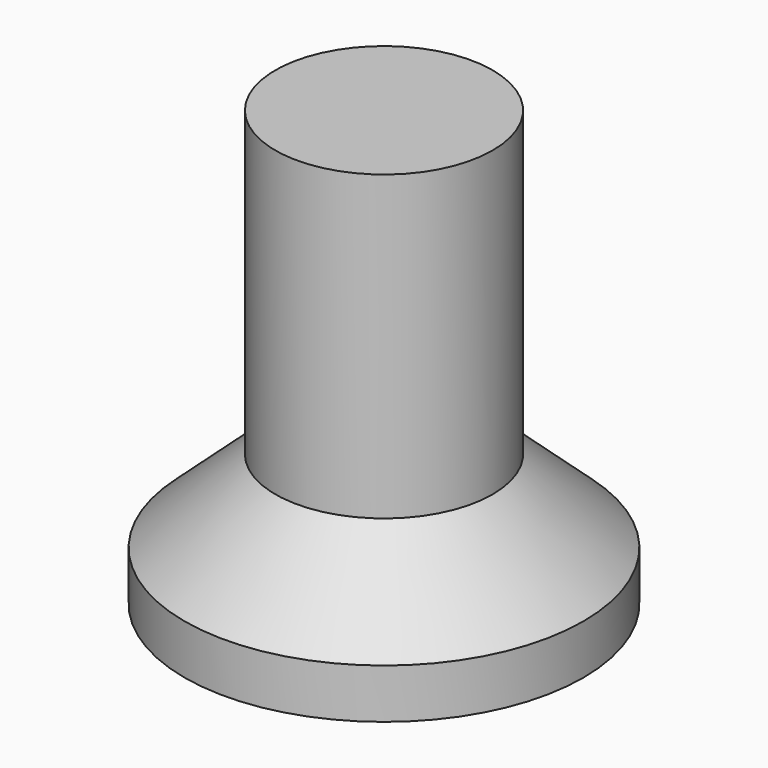
from build123d import *

# Parameters (mm, degrees)
F3_D     = 3
F3_DEPTH = 1
F3_TIP   = 0.9012909285
F5_DEPTH = 1.1


with BuildPart() as f1:
    # F0 (on Front) → F1 (revolve)
    with BuildSketch(Plane.XZ):
        Polygon((1.5, 6), (0, 6), (0, 0), (2.753497507, 0), (2.753497507, 0.685), (1.5, 1.82), align=None)
    revolve(axis=Axis((0, 0, 3), (0, 0, -1)))

    # F3
    with Locations(Plane(origin=(0, 0, 0), x_dir=(1, 0, 0), z_dir=(0, 0, -1))):
        with Locations((0, 0)):
            Hole(F3_D / 2, depth=F3_DEPTH)
            with Locations((0, 0, -(F3_DEPTH + F3_TIP / 2))):  # 118° drill point
                Cone(0, F3_D / 2, F3_TIP, mode=Mode.SUBTRACT)

    # F4 (on face) → F5 (cut)
    with BuildSketch(Plane(origin=(0, 0, 0), x_dir=(1, 0, 0), z_dir=(0, 0, -1))):
        with BuildLine():
            ThreePointArc((1.4420504443, -0.4129049722), (1.4854419656, -0.2084758182), (1.5, 0))
            ThreePointArc((1.5, 0), (1.3906683924, 0.5621756153), (1.0786114367, 1.0423998122))
            ThreePointArc((1.0786114367, 1.0423998122), (0.4129049995, 1.4420504365), (-0.3634389987, 1.4553048114))
            ThreePointArc((-0.3634389987, 1.4553048114), (-1.0423998218, 1.0786114275), (-1.4420504443, 0.4129049722))
            ThreePointArc((-1.4420504443, 0.4129049722), (-1.4553048039, -0.363439029), (-1.0786114144, -1.0423998354))
            ThreePointArc((-1.0786114144, -1.0423998354), (-0.412904984, -1.4420504409), (0.3634389987, -1.4553048114))
            ThreePointArc((0.3634389987, -1.4553048114), (1.0423998218, -1.0786114275), (1.4420504443, -0.4129049722))
        make_face()
        with BuildLine():
            ThreePointArc((1.0786114367, 1.0423998122), (1.3906683924, 0.5621756153), (1.5, 0))
            ThreePointArc((1.5, 0), (1.4854419656, -0.2084758182), (1.4420504443, -0.4129049722))
            Line((1.4420504443, -0.4129049722), (1.680441244, 0.4196632286))
            Line((1.680441244, 0.4196632286), (1.0786114367, 1.0423998122))
        make_face()
        with BuildLine():
            ThreePointArc((-0.3634389987, 1.4553048114), (0.4129049995, 1.4420504365), (1.0786114367, 1.0423998122))
            Line((1.0786114367, 1.0423998122), (0.476781605, 1.6651364212))
            Line((0.476781605, 1.6651364212), (-0.3634389987, 1.4553048114))
        make_face()
        with BuildLine():
            Line((1.203659639, -1.2454731926), (1.4420504443, -0.4129049722))
            ThreePointArc((1.4420504443, -0.4129049722), (1.0423998218, -1.0786114275), (0.3634389987, -1.4553048114))
            Line((0.3634389987, -1.4553048114), (1.203659639, -1.2454731926))
        make_face()
        with BuildLine():
            ThreePointArc((-1.4420504443, 0.4129049722), (-1.0423998218, 1.0786114275), (-0.3634389987, 1.4553048114))
            Line((-0.3634389987, 1.4553048114), (-1.203659639, 1.2454731926))
            Line((-1.203659639, 1.2454731926), (-1.4420504443, 0.4129049722))
        make_face()
        with BuildLine():
            Line((-0.476781605, -1.6651364212), (0.3634389987, -1.4553048114))
            ThreePointArc((0.3634389987, -1.4553048114), (-0.412904984, -1.4420504409), (-1.0786114144, -1.0423998354))
            Line((-1.0786114144, -1.0423998354), (-0.476781605, -1.6651364212))
        make_face()
        with BuildLine():
            ThreePointArc((-1.0786114144, -1.0423998354), (-1.4553048039, -0.363439029), (-1.4420504443, 0.4129049722))
            Line((-1.4420504443, 0.4129049722), (-1.680441244, -0.4196632286))
            Line((-1.680441244, -0.4196632286), (-1.0786114144, -1.0423998354))
        make_face()
    extrude(amount=-F5_DEPTH, mode=Mode.SUBTRACT)


solid = f1.part
